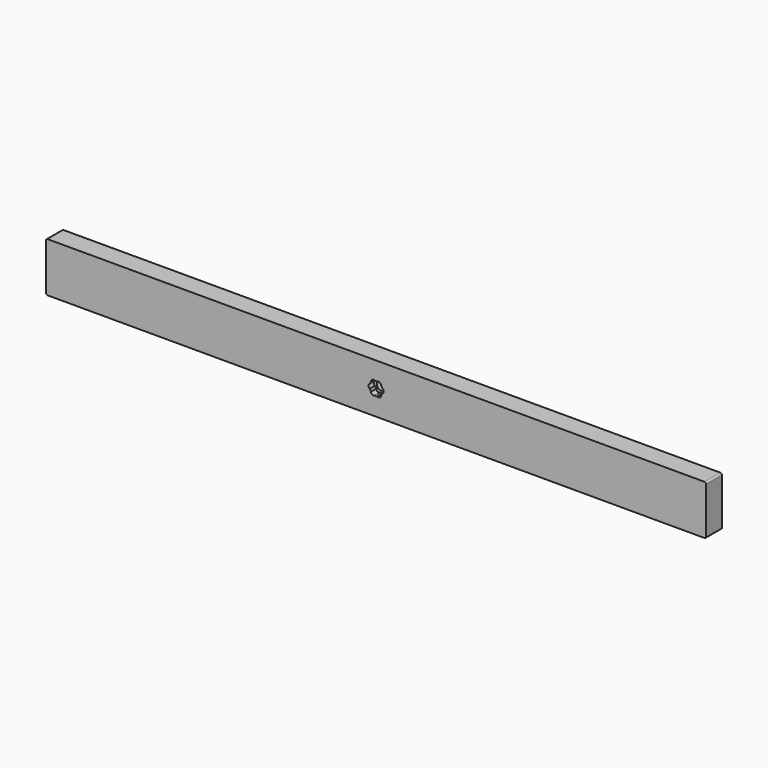
from build123d import *

# Parameters (mm, degrees)
F0_W     = 12
F0_H     = 30
F1_DEPTH = 200
F2_R     = 1
F3_R     = 2.75
F4_DEPTH = 4
F5_DEPTH = 12.001


with BuildPart() as f1:
    # F0 (on Right) → F1 (new body, symmetric)
    with BuildSketch(Plane.YZ):
        with Locations((6, 15)):
            Rectangle(F0_W, F0_H)
    extrude(amount=F1_DEPTH, both=True)

    # F2
    f2_edges = [f1.edges().sort_by_distance(p)[0] for p in [
        (-200, 6, 30),
        (200, 6, 30),
        (200, 6, 0),
        (-200, 6, 0),
    ]]
    fillet(f2_edges, radius=F2_R)

    # F3 (on face) → F4 (cut)
    with BuildSketch(Plane.XZ):
        with BuildLine():
            Line((3.4641016151, 17), (3.0594010768, 17.7009618943))
            ThreePointArc((3.0594010768, 17.7009618943), (2.3094010768, 19), (0.8094010768, 19))
            Line((0.8094010768, 19), (0, 19))
            Line((0, 19), (-0.8094010768, 19))
            ThreePointArc((-0.8094010768, 19), (-2.3094010768, 19), (-3.0594010768, 17.7009618943))
            Line((-3.0594010768, 17.7009618943), (-3.4641016151, 17))
            Line((-3.4641016151, 17), (-3.8688021535, 16.2990381057))
            ThreePointArc((-3.8688021535, 16.2990381057), (-4.6188021535, 15), (-3.8688021535, 13.7009618943))
            Line((-3.8688021535, 13.7009618943), (-3.4641016151, 13))
            Line((-3.4641016151, 13), (-3.0594010768, 12.2990381057))
            ThreePointArc((-3.0594010768, 12.2990381057), (-2.3094010768, 11), (-0.8094010768, 11))
            Line((-0.8094010768, 11), (0, 11))
            Line((0, 11), (0.8094010768, 11))
            ThreePointArc((0.8094010768, 11), (2.3094010768, 11), (3.0594010768, 12.2990381057))
            Line((3.0594010768, 12.2990381057), (3.4641016151, 13))
            Line((3.4641016151, 13), (3.8688021535, 13.7009618943))
            ThreePointArc((3.8688021535, 13.7009618943), (4.6188021535, 15), (3.8688021535, 16.2990381057))
            Line((3.8688021535, 16.2990381057), (3.4641016151, 17))
        make_face()
        with Locations((0, 15)):
            Circle(F3_R, mode=Mode.SUBTRACT)
    extrude(amount=-F4_DEPTH, mode=Mode.SUBTRACT)

    # F5 (cut, through all): a face of the model
    f5_faces = [f1.faces().sort_by_distance(p)[0] for p in [
        (0, 0, 15),
    ]]
    extrude(f5_faces, amount=-F5_DEPTH, mode=Mode.SUBTRACT)


solid = f1.part
